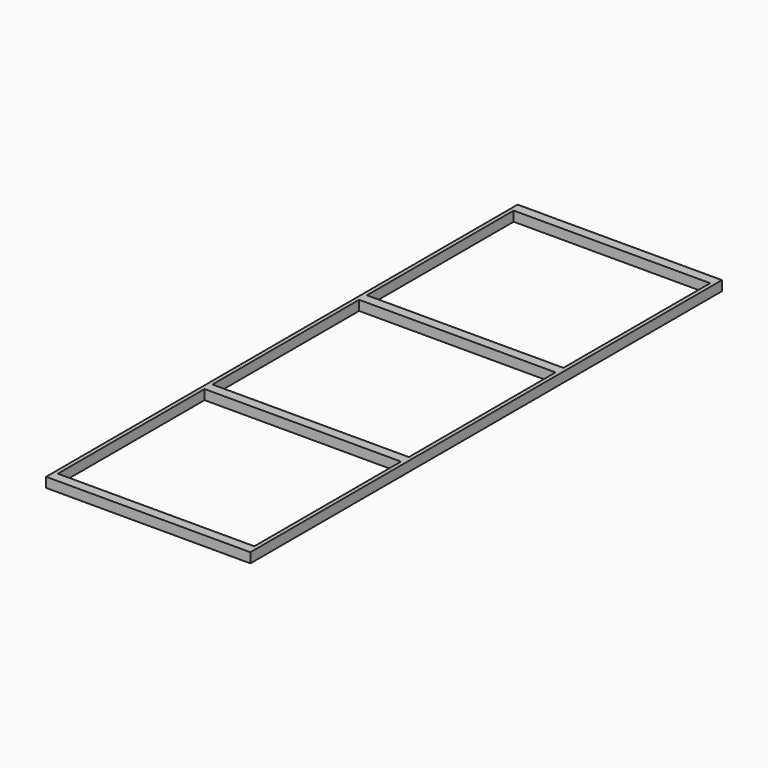
from build123d import *

# Parameters (mm, degrees)
F0_W     = 100
F0_H     = 5
F1_DEPTH = 5


with BuildPart() as f1:
    # F0 (on Top) → F1 (new body)
    with BuildSketch(Plane.XY):
        with Locations((-85.03906, -62.637689)):
            Rectangle(F0_W, F0_H)
        with Locations((-85.03906, 35.695645)):
            Rectangle(F0_W, F0_H)
        with Locations((-85.03906, 134.028978)):
            Rectangle(F0_W, F0_H)
        with Locations((-85.03906, 232.362311)):
            Rectangle(F0_W, F0_H)
        Polygon((-135.03906, 229.862311), (-135.03906, 234.862311), (-137.03906, 234.862311), (-137.03906, -65.137689), (-135.03906, -65.137689), (-135.03906, -60.137689), (-135.03906, 33.195645), (-135.03906, 38.195645), (-135.03906, 131.528978), (-135.03906, 136.528978), align=None)
        Polygon((-33.03906, 234.862311), (-35.03906, 234.862311), (-35.03906, 229.862311), (-35.03906, 136.528978), (-35.03906, 131.528978), (-35.03906, 38.195645), (-35.03906, 33.195645), (-35.03906, -60.137689), (-35.03906, -65.137689), (-33.03906, -65.137689), align=None)
    extrude(amount=F1_DEPTH)


solid = f1.part
